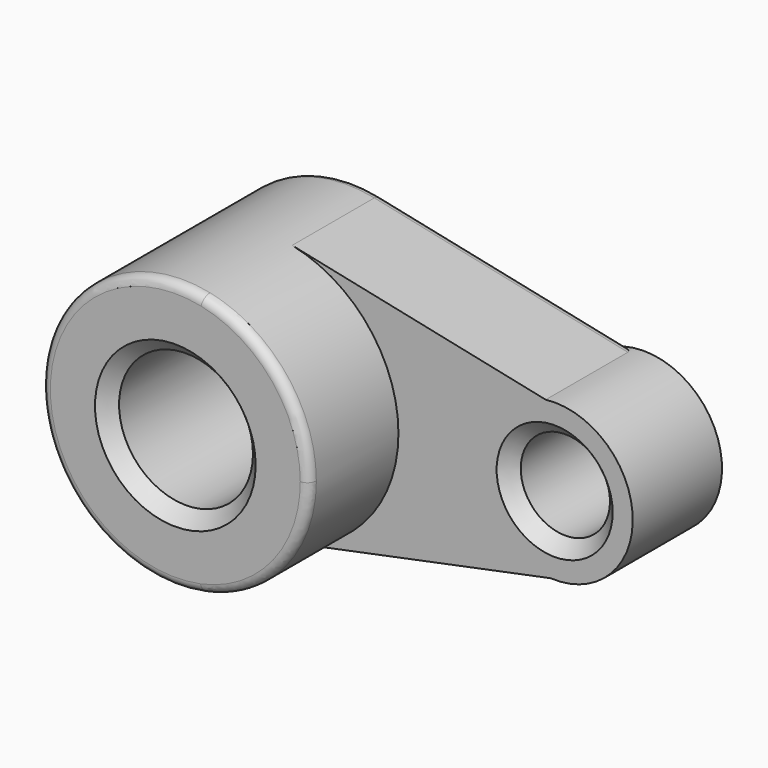
from build123d import *

# Parameters (mm, degrees)
F0_R     = 15
F0_R_2   = 10
F1_DEPTH = 25
F2_DEPTH = 50
F3_SIZE  = 3
F4_R     = 2


with BuildPart() as f1:
    # F0 (on Front) → F1 (new body)
    with BuildSketch(Plane.XZ):
        with BuildLine():
            ThreePointArc((6.0280672627, -29.3881337461), (23.2469569824, -18.9625681557), (30, 0))
            ThreePointArc((30, 0), (23.2980522028, 18.899755648), (6.186615763, 29.3551662472))
            ThreePointArc((6.186615763, 29.3551662472), (-29.9998907311, 0.0809698754), (6.0280672627, -29.3881337461))
        make_face()
        Circle(F0_R, mode=Mode.SUBTRACT)
        with BuildLine():
            ThreePointArc((6.186615763, 29.3551662472), (23.2980522028, 18.899755648), (30, 0))
            ThreePointArc((30, 0), (23.2469569824, -18.9625681557), (6.0280672627, -29.3881337461))
            Line((6.0280672627, -29.3881337461), (64.0985580176, -17.476767503))
            ThreePointArc((64.0985580176, -17.476767503), (47.5088589909, -0.5567640428), (62.9888960495, 17.384057665))
            Line((62.9888960495, 17.384057665), (6.186615763, 29.3551662472))
        make_face()
        with BuildLine():
            ThreePointArc((82.5, 0), (76.6416425144, 13.0660690174), (62.9888960495, 17.384057665))
            ThreePointArc((62.9888960495, 17.384057665), (47.5088589909, -0.5567640428), (64.0985580176, -17.476767503))
            ThreePointArc((64.0985580176, -17.476767503), (77.0514473261, -12.6890747238), (82.5, 0))
        make_face()
        with Locations((65, 0)):
            Circle(F0_R_2, mode=Mode.SUBTRACT)
    extrude(amount=F1_DEPTH)

    # F0 (on Front) → F2 (join)
    with BuildSketch(Plane.XZ):
        with BuildLine():
            ThreePointArc((6.0280672627, -29.3881337461), (23.2469569824, -18.9625681557), (30, 0))
            ThreePointArc((30, 0), (23.2980522028, 18.899755648), (6.186615763, 29.3551662472))
            ThreePointArc((6.186615763, 29.3551662472), (-29.9998907311, 0.0809698754), (6.0280672627, -29.3881337461))
        make_face()
        Circle(F0_R, mode=Mode.SUBTRACT)
    extrude(amount=F2_DEPTH)

    # F3
    f3_edges = [f1.edges().sort_by_distance(p)[0] for p in [
        (-15, -50, 0),
        (55, -25, 0),
    ]]
    chamfer(f3_edges, length=F3_SIZE)

    # F4
    f4_edges = [f1.edges().sort_by_distance(p)[0] for p in [
        (-6.028067, -50, 29.388134),
        (35.063313, 0, -23.432451),
    ]]
    fillet(f4_edges, radius=F4_R)


solid = f1.part
